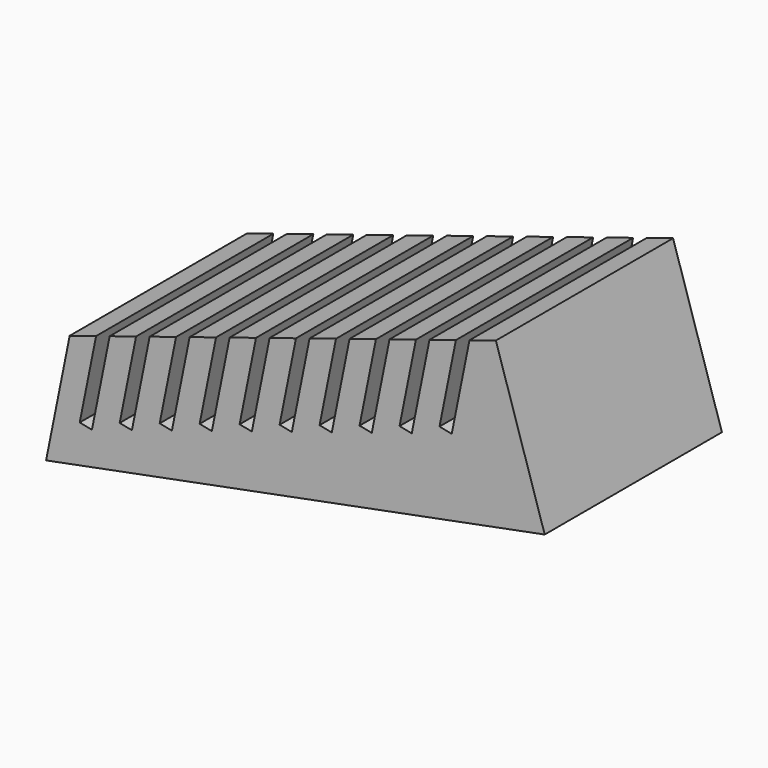
from build123d import *

# Parameters (mm, degrees)
F1_DEPTH = 80


with BuildPart() as f1:
    # F0 (on Front) → F1 (new body)
    with BuildSketch(Plane.XZ):
        Polygon((-91.074732, -45.658896), (-99.603154, -88.0637), (80.483109, -53.076553), (62.843027, 2.870933), (53.305853, -0.136111), (46.901497, -31.979689), (42.489836, -31.092419), (48.404969, -1.681346), (38.867795, -4.68839), (32.463438, -36.531967), (28.051777, -35.644697), (33.96691, -6.233625), (24.429736, -9.240668), (18.02538, -41.084246), (13.613719, -40.196976), (19.528852, -10.785903), (9.991678, -13.792947), (3.587321, -45.636524), (-0.82434, -44.749254), (5.090793, -15.338182), (-4.446381, -18.345225), (-10.850737, -50.188803), (-15.262398, -49.301533), (-9.347265, -19.89046), (-18.884439, -22.897504), (-25.288796, -54.741081), (-29.700457, -53.853811), (-23.785324, -24.442739), (-33.322498, -27.449782), (-39.726854, -59.29336), (-44.138515, -58.40609), (-38.223382, -28.995017), (-47.760556, -32.002061), (-54.164913, -63.845638), (-58.576574, -62.958368), (-52.661441, -33.547296), (-62.198615, -36.554339), (-68.602971, -68.397917), (-73.014632, -67.510647), (-67.099499, -38.099574), (-76.636673, -41.106618), (-83.04103, -72.950195), (-87.452691, -72.062925), (-81.537558, -42.651853), align=None)
    extrude(amount=F1_DEPTH)


solid = f1.part
